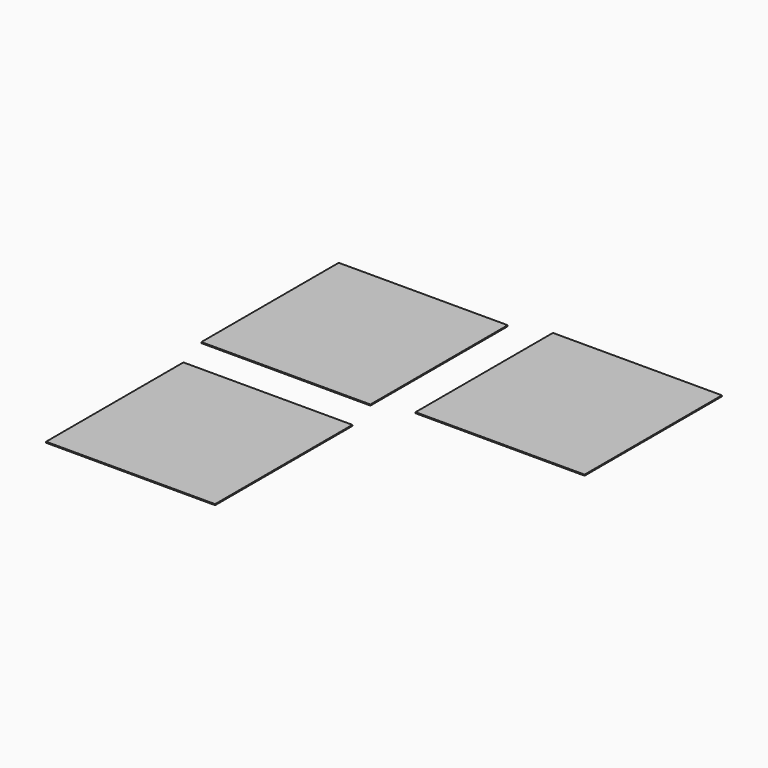
from build123d import *

# Parameters (mm, degrees)
F0_W     = 42.583288
F0_H     = 43.248649
F1_DEPTH = 0.254
F0_W_2   = 42.583289
F0_H_2   = 43.248648
F2_DEPTH = 0.254


with BuildPart() as f1:
    # F0 (on Top) → F1 (new body)
    with BuildSketch(Plane.XY):
        with Locations((-34.765262, 27.279917)):
            Rectangle(F0_W, F0_H)
    extrude(amount=F1_DEPTH)

    # F0 (on Top) → F2 (join)
    with BuildSketch(Plane.XY):
        with Locations((-34.765262, 27.279917)):
            Rectangle(F0_W, F0_H)
        with Locations((16.800435, 30.274056)):
            Rectangle(F0_W_2, F0_H_2)
        with Locations((-32.103806, -24.951144)):
            Rectangle(F0_W_2, F0_H)
    extrude(amount=F2_DEPTH)


solid = f1.part
